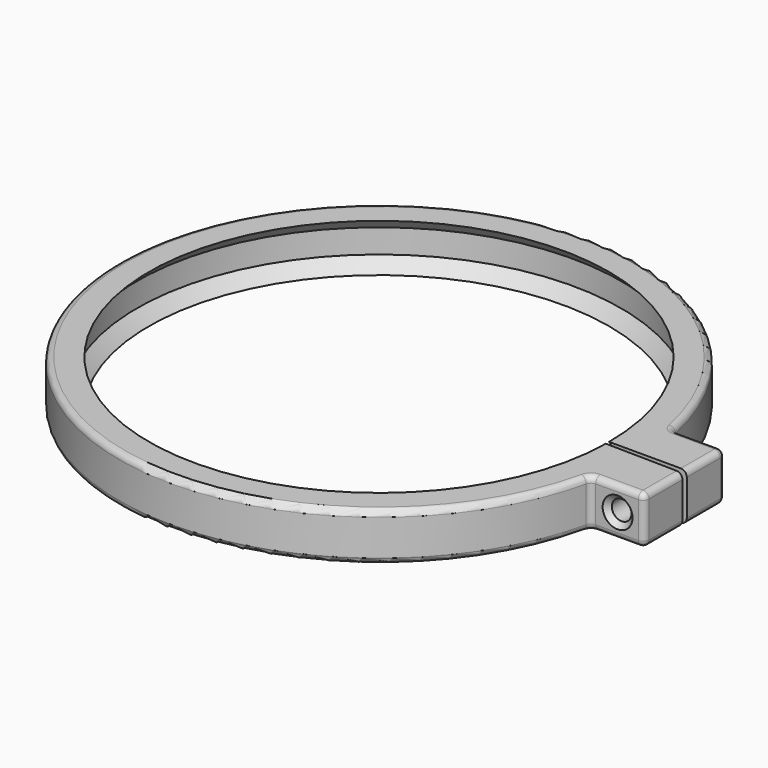
from build123d import *

# Parameters (mm, degrees)
F1_ANGLE       = 359
F3_DEPTH       = 4
F5_D           = 3.3
F5_DEPTH       = 8
F5_CSINK_D     = 5
F5_CSINK_ANGLE = 90
F5_TIP         = 0.9914200214
F6_R           = 2.15
F7_DEPTH       = 8
F8_R           = 1


with BuildPart() as f1:
    # F0 (on Front) → F1 (revolve)
    with BuildSketch(Plane.XZ):
        Polygon((38.5, 4), (40.5, 2), (40.5, -2), (38.5, -4), (43.5, -4), (43.5, 4), align=None)
    revolve(axis=Axis((0, 0, 13.8600002974), (0, 0, 1)), revolution_arc=F1_ANGLE)

    # F2 (on Top) → F3 (join, symmetric)
    with BuildSketch(Plane.XY):
        Polygon((42.7580401796, 8), (42.6183996602, 0), (43.5, 0), (51.5, 0), (51.5, 8), align=None)
        Polygon((42.5800298362, -0.7432371854), (42.5800298362, -8.8989358438), (51.5, -8.8989358438), (51.5, -0.8989358438), (43.4933747393, -0.75917968), align=None)
    extrude(amount=F3_DEPTH, both=True)

    # F5
    with Locations(Plane.XZ.offset(8.8989358438)):
        with Locations((47.0400149181, 0)):
            CounterSinkHole(F5_D / 2, F5_CSINK_D / 2, depth=F5_DEPTH, counter_sink_angle=F5_CSINK_ANGLE)
            with Locations((0, 0, -(F5_DEPTH + F5_TIP / 2))):  # 118° drill point
                Cone(0, F5_D / 2, F5_TIP, mode=Mode.SUBTRACT)

    # F6 (on face) → F7 (cut, through all)
    with BuildSketch(Plane(origin=(0, 8, 0), x_dir=(-1, 0, 0), z_dir=(0, 1, 0))):
        with Locations((-47.1290200898, 0)):
            Circle(F6_R)
    extrude(amount=-F7_DEPTH, mode=Mode.SUBTRACT)

    # F8
    f8_edges = [f1.edges().sort_by_distance(p)[0] for p in [
        (47.12902, 8, -4),
        (-43.497587, 0.458196, -4),
        (51.5, 4, -4),
        (51.5, -4.898936, -4),
        (47.040015, -8.898936, -4),
        (51.5, 4, 4),
        (47.12902, 8, 4),
        (-43.497587, 0.458196, 4),
        (47.040015, -8.898936, 4),
        (51.5, -4.898936, 4),
        (51.5, -8.898936, 0),
        (51.5, 8, 0),
        (42.75804, 8, 0),
        (42.58003, -8.898936, 0),
    ]]
    fillet(f8_edges, radius=F8_R)


solid = f1.part
